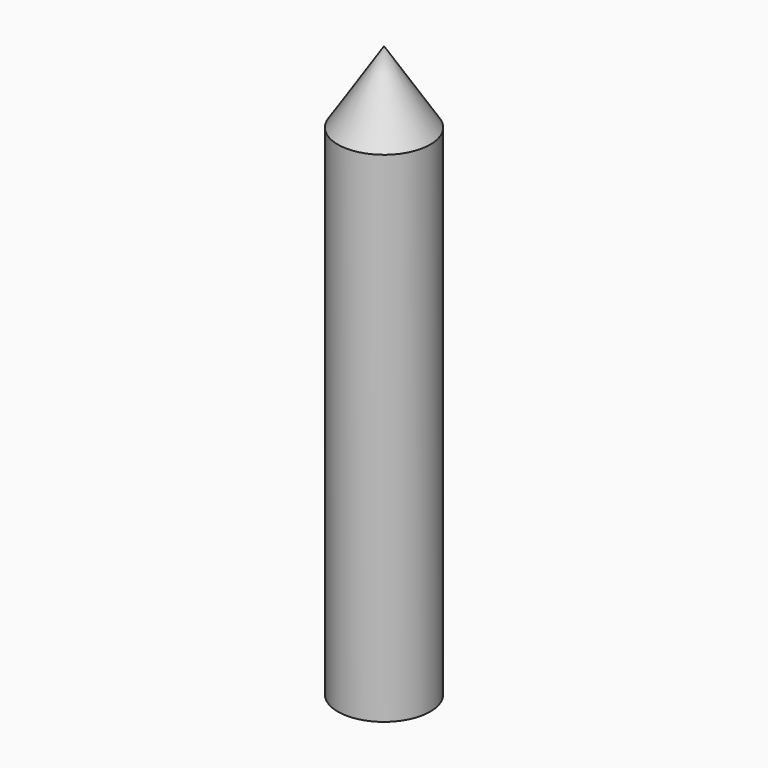
from build123d import *

# Parameters (mm, degrees)
F2_R     = 3.81
F3_DEPTH = 67.31


with BuildPart() as f1:
    # F0 (on Front) → F1 (revolve)
    with BuildSketch(Plane.XZ):
        Polygon((-44.714417, 57.55201), (-51.034477, 67.3481), (-51.034477, -10.704629), (-44.714417, -10.704629), align=None)
    revolve(axis=Axis((-51.034477, 0, 28.321736), (0, 0, -1)))

    # F2 (on face) → F3 (cut)
    with BuildSketch(Plane(origin=(0, 0, -10.704629), x_dir=(1, 0, 0), z_dir=(0, 0, -1))):
        with Locations((-51.034477, 0)):
            Circle(F2_R)
    extrude(amount=-F3_DEPTH, mode=Mode.SUBTRACT)


solid = f1.part
